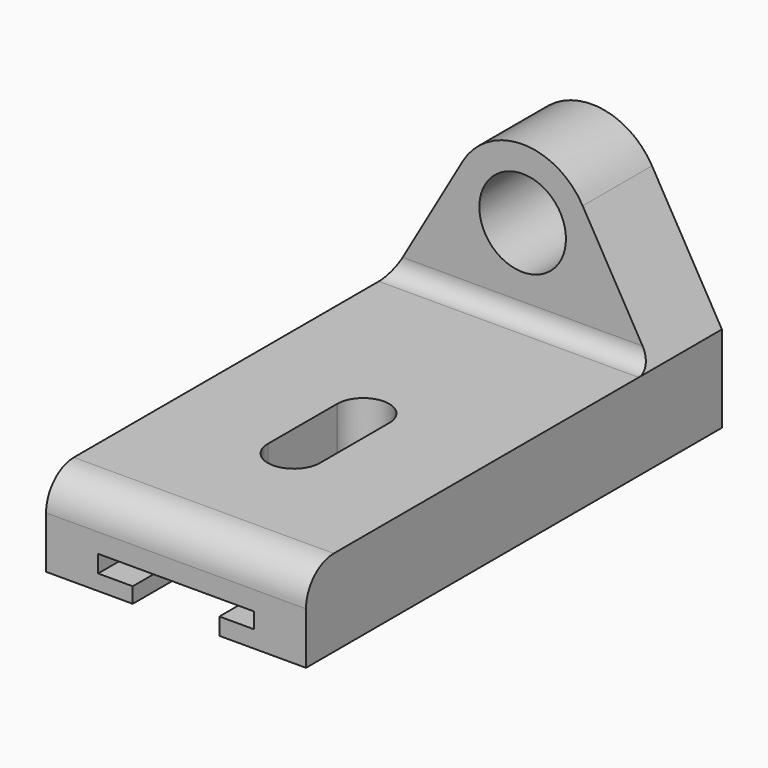
from build123d import *

# Parameters (mm, degrees)
F1_DEPTH  = 19.05
F3_DEPTH  = 12.701
F4_R      = 6.35
F5_DEPTH  = 12.701
F6_R      = 2.54
F8_DEPTH  = 76.201
F9_R      = 5.08
F11_DEPTH = 25.4


with BuildPart() as f1:
    # F0 (on Right) → F1 (new body, symmetric)
    with BuildSketch(Plane.YZ):
        Polygon((-51.152777, 0), (0, 0), (25.047223, 0), (25.047223, 38.1), (12.347223, 38.1), (12.347223, 12.7), (-51.152777, 12.7), align=None)
    extrude(amount=F1_DEPTH, both=True)

    # F2 (on face) → F3 (cut, through all)
    with BuildSketch(Plane.XZ.offset(-12.347223)):
        with BuildLine():
            ThreePointArc((-8.801841, 30.474761), (0, 35.56), (8.801841, 30.474761))
            Line((8.801841, 30.474761), (19.05, 12.7))
            Line((19.05, 12.7), (19.05, 38.1))
            Line((19.05, 38.1), (-19.05, 38.1))
            Line((-19.05, 38.1), (-19.05, 12.7))
            Line((-19.05, 12.7), (-8.801841, 30.474761))
        make_face()
    extrude(amount=-F3_DEPTH, mode=Mode.SUBTRACT)

    # F4 (on face) → F5 (cut, through all)
    with BuildSketch(Plane.XZ.offset(-12.347223)):
        with Locations((0, 25.4)):
            Circle(F4_R)
    extrude(amount=-F5_DEPTH, mode=Mode.SUBTRACT)

    # F6
    f6_edges = [f1.edges().sort_by_distance(p)[0] for p in [
        (0, 12.347223, 12.7),
    ]]
    fillet(f6_edges, radius=F6_R)

    # F7 (on face) → F8 (cut, through all)
    with BuildSketch(Plane.XZ.offset(51.152777)):
        Polygon((-6.35, 0), (0, 0), (6.35, 0), (6.35, 2.49879), (11.43, 2.49879), (11.43, 4.806255), (-11.43, 4.806255), (-11.43, 2.266255), (-6.35, 2.266255), align=None)
    extrude(amount=-F8_DEPTH, mode=Mode.SUBTRACT)

    # F9
    f9_edges = [f1.edges().sort_by_distance(p)[0] for p in [
        (0, -51.152777, 12.7),
    ]]
    fillet(f9_edges, radius=F9_R)

    # F10 (on face) → F11 (cut)
    with BuildSketch(Plane.XY.offset(12.7)):
        with BuildLine():
            Line((3.80817, -16.744703), (3.808204, -16.979764))
            ThreePointArc((3.808204, -16.979764), (3.81, -16.862233), (3.80817, -16.744703))
        make_face()
        with BuildLine():
            Line((3.81, -29.562233), (3.808204, -16.979764))
            Line((3.808204, -16.979764), (3.80817, -16.744703))
            ThreePointArc((3.80817, -16.744703), (-0.018418, -13.052821), (-3.809134, -16.781525))
            Line((-3.809134, -16.781525), (-3.809144, -16.943512))
            Line((-3.809144, -16.943512), (-3.81, -29.562519))
            ThreePointArc((-3.81, -29.562519), (0.000143, -33.372777), (3.81, -29.562233))
        make_face()
        with BuildLine():
            Line((-3.809144, -16.943512), (-3.809134, -16.781525))
            ThreePointArc((-3.809134, -16.781525), (-3.81, -16.862519), (-3.809144, -16.943512))
        make_face()
    extrude(amount=-F11_DEPTH, mode=Mode.SUBTRACT)


solid = f1.part
